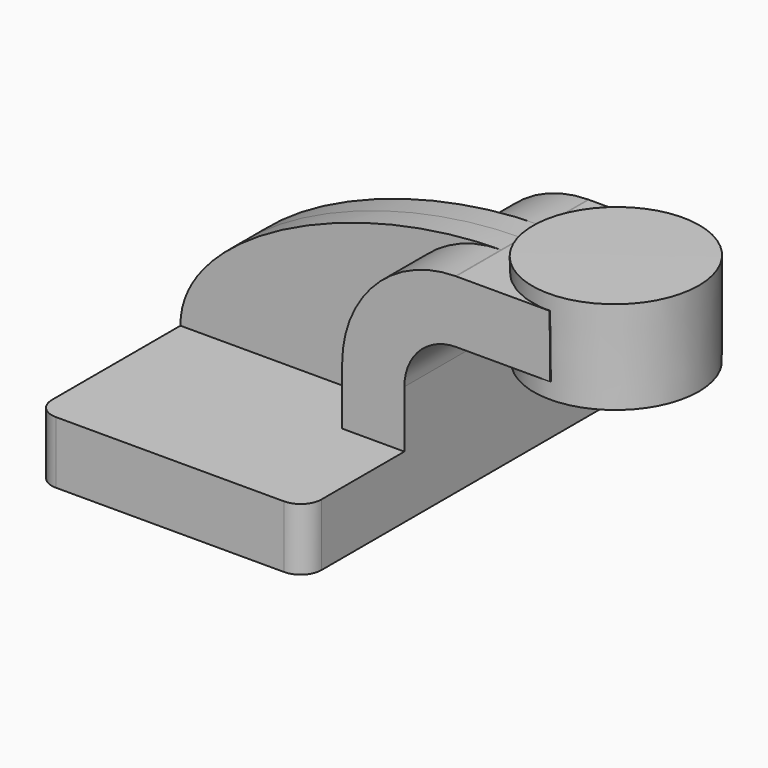
from build123d import *

# Parameters (mm, degrees)
F1_DEPTH = 63.5
F2_DEPTH = 25.4
F3_DEPTH = 7.9375
F5_R     = 6.35


with BuildPart() as f1:
    # F0 (on Front) → F1 (new body, symmetric)
    with BuildSketch(Plane.XZ):
        Polygon((-41.275, -9.525), (41.275, -9.525), (41.275, 9.525), (22.225, 9.525), (-41.275, 9.525), align=None)
    extrude(amount=F1_DEPTH, both=True)

    # F0 (on Front) → F2 (join, symmetric)
    with BuildSketch(Plane.XZ):
        with BuildLine():
            Line((22.225, 9.525), (41.275, 9.525))
            Line((41.275, 9.525), (41.275, 27.0002))
            ThreePointArc((41.275, 27.0002), (45.9246798487, 38.2255201513), (57.15, 42.8752))
            Line((57.15, 42.8752), (60.325, 42.8752))
            Line((60.325, 42.8752), (60.325, 61.9252))
            Line((60.325, 61.9252), (57.15, 61.9252))
            add(Edge.make_bspline(
                [(56.8991336297, 61.9242990015), (56.9827707325, 61.9246800592), (57.0663929629, 61.924980438), (57.15, 61.9252)],
                knots=[111.305979744, 111.305979744, 111.305979744, 111.305979744, 111.5045361635, 111.5045361635, 111.5045361635, 111.5045361635], degree=3))
            ThreePointArc((56.8991336297, 61.9242990015), (32.3657597153, 51.607049829), (22.225, 27.0002))
            Line((22.225, 27.0002), (22.225, 9.525))
        make_face()
        Polygon((60.325, 61.9252), (60.325, 42.8752), (85.8974464586, 42.8752), (85.7594156753, 61.9252), align=None)
    extrude(amount=F2_DEPTH, both=True)

    # F0 (on Front) → F3 (join, symmetric)
    with BuildSketch(Plane.XZ):
        with BuildLine():
            add(Edge.make_bspline(
                [(-41.275, 9.525), (-41.5444001407, 36.1441011448), (10.0141742032, 61.710687173), (56.8991336297, 61.9242990015)],
                knots=[0, 0, 0, 0, 111.305979744, 111.305979744, 111.305979744, 111.305979744], degree=3))
            Line((-41.275, 9.525), (22.225, 9.525))
            Line((22.225, 9.525), (22.225, 27.0002))
            ThreePointArc((22.225, 27.0002), (32.3657597153, 51.607049829), (56.8991336297, 61.9242990015))
        make_face()
    extrude(amount=F3_DEPTH, both=True)

    # F5
    f5_edges = [f1.edges().sort_by_distance(p)[0] for p in [
        (41.275, 63.5, 0),
        (-41.275, 63.5, 0),
        (-41.275, -63.5, 0),
        (41.275, -63.5, 0),
    ]]
    fillet(f5_edges, radius=F5_R)


with BuildPart() as f4:
    # F0 (on Front) → F4 (revolve)
    with BuildSketch(Plane.XZ):
        Polygon((85.932046175, 42.8752), (85.8974464586, 42.8752), (85.932046175, 38.1), (111.125, 38.1), (111.125, 66.675), (85.725, 66.675), (85.7594156753, 61.9252), (85.932046175, 61.9252), align=None)
    revolve(axis=Axis((85.8285230875, 0, 52.3875), (0.0072455202, 0, -0.9999737509)))


solid = Compound([f1.part, f4.part])
